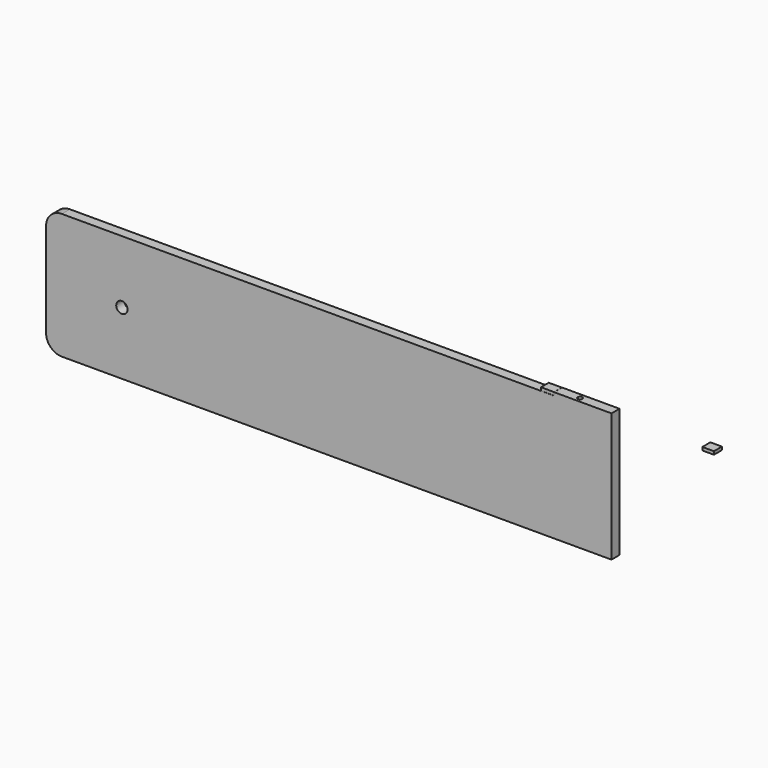
from build123d import *

# Parameters (mm, degrees)
F0_W      = 180
F0_H      = 40
F1_DEPTH  = 1.6
F2_R      = 5
F3_R      = 1.8
F4_DEPTH  = 4.1
F5_W      = 3.6728084087
F5_H      = 3.2
F6_DEPTH  = 1
F7_W      = 4.2031484842
F7_H      = 3.2
F8_DEPTH  = 1
F10_W     = 4.1738450527
F10_H     = 3.1016289722
F11_DEPTH = 1
F9_W      = 5.8124548197
F9_H      = 3.2
F9_W_2    = 2.8670355678
F9_R      = 0.7379231369
F9_W_3    = 5.4037979245
F12_DEPTH = 1


with BuildPart() as f1:
    # F0 (on Front) → F1 (new body, symmetric)
    with BuildSketch(Plane.XZ):
        Rectangle(F0_W, F0_H)
    extrude(amount=F1_DEPTH, both=True)

    # F2
    f2_edges = [f1.edges().sort_by_distance(p)[0] for p in [
        (-90, 0, 20),
        (-90, 0, -20),
    ]]
    fillet(f2_edges, radius=F2_R)

    # F3 (on face) → F4 (cut)
    with BuildSketch(Plane.XZ.offset(1.6)):
        with Locations((-65.8702030778, 0)):
            Circle(F3_R)
    extrude(amount=-F4_DEPTH, mode=Mode.SUBTRACT)

    # F7 (on face) → F8 (join)
    with BuildSketch(Plane.XY.offset(20)):
        with Locations((87.8984257579, 0)):
            Rectangle(F7_W, F7_H)
    extrude(amount=F8_DEPTH)

    # F10 (on face) → F11 (join)
    with BuildSketch(Plane.XY.offset(20)):
        with Locations((69.6047022939, 0)):
            Rectangle(F10_W, F10_H)
    extrude(amount=F11_DEPTH)

    # F9 (on face) → F12 (join)
    with BuildSketch(Plane.XY.offset(20)):
        with Locations((82.8906241059, 0)):
            Rectangle(F9_W, F9_H)
        with Locations((78.5508789122, 0)):
            Rectangle(F9_W_2, F9_H)
        with Locations((78.7552073598, 0)):
            Circle(F9_R, mode=Mode.SUBTRACT)
        with Locations((74.4154621661, 0)):
            Rectangle(F9_W_3, F9_H)
    extrude(amount=F12_DEPTH)


with BuildPart() as f6:
    # F5 (on face) → F6 (new body)
    with BuildSketch(Plane.XY.offset(20)):
        with Locations((120.7727342844, 0)):
            Rectangle(F5_W, F5_H)
    extrude(amount=F6_DEPTH)


solid = Compound([f1.part, f6.part])
